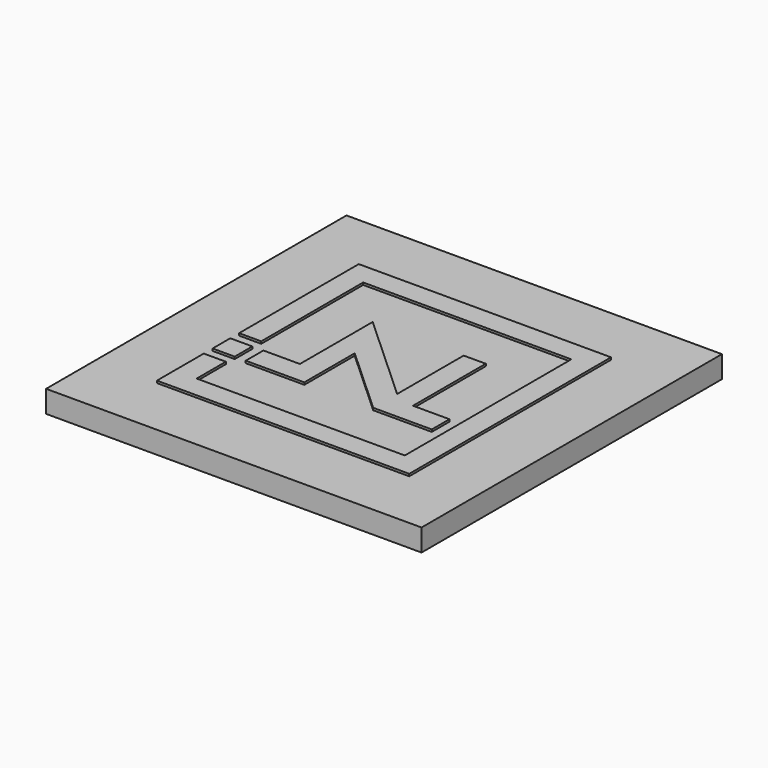
from build123d import *

# Parameters (mm, degrees)
F1_DEPTH = 0.1
F0_W     = 1
F0_H     = 1
F2_W     = 17
F2_H     = 17
F3_DEPTH = 1


with BuildPart() as f1:
    # F0 (on Top) → F1 (new body)
    with BuildSketch(Plane.XY):
        Polygon((5.712, 5.712), (-5.712, 5.712), (-5.712, -1.06), (-4.712, -1.06), (-4.712, 4.712), (4.712, 4.712), (4.712, -4.712), (-4.712, -4.712), (-4.712, -3.06), (-5.712, -3.06), (-5.712, -5.712), (5.712, -5.712), align=None)
    extrude(amount=F1_DEPTH)


with BuildPart() as f1b:
    # F0 (on Top) → F1, piece 2 (new body)
    with BuildSketch(Plane.XY):
        with Locations((-5.212, -2.06)):
            Rectangle(F0_W, F0_H)
    extrude(amount=F1_DEPTH)


with BuildPart() as f1c:
    # F0 (on Top) → F1, piece 3 (new body)
    with BuildSketch(Plane.XY):
        Polygon((-4.212, -1.56), (-4.212, -2.56), (-1.56, -2.56), (-1.56, 0.2913885544), (1.56, -2.56), (4.212, -2.56), (4.212, -1.56), (2.56, -1.56), (2.56, 2.56), (1.56, 2.56), (1.56, -1.2052951423), (-2.56, 2.56), (-2.56, -1.56), align=None)
    extrude(amount=F1_DEPTH)


with BuildPart() as f3:
    # F2 (on Top) → F3 (new body)
    with BuildSketch(Plane.XY):
        Rectangle(F2_W, F2_H)
    extrude(amount=-F3_DEPTH)


solid = Compound([f1.part, f1b.part, f1c.part, f3.part])
